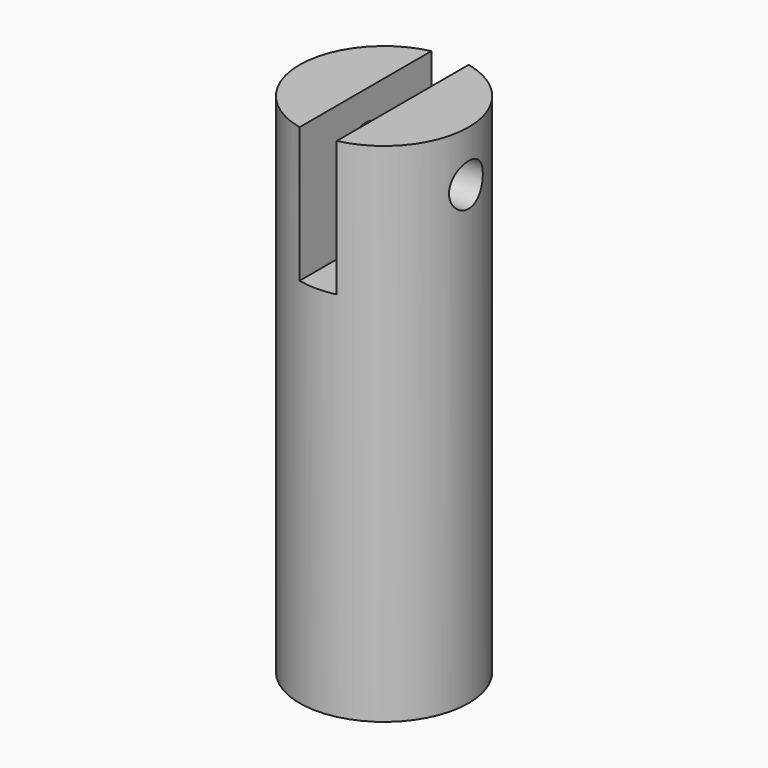
from build123d import *

# Parameters (mm, degrees)
F0_R     = 5
F1_DEPTH = 30
F3_DEPTH = 8
F4_R     = 1.25
F5_DEPTH = 5
F7_D     = 4
F7_DEPTH = 10
F7_TIP   = 1.2017212381


with BuildPart() as f1:
    # F0 (on Top) → F1 (new body)
    with BuildSketch(Plane.XY):
        Circle(F0_R)
    extrude(amount=F1_DEPTH)

    # F2 (on face) → F3 (cut)
    with BuildSketch(Plane.XY.offset(30)):
        with BuildLine():
            ThreePointArc((1.1, 4.8774993593), (0, 5), (-1.1, 4.8774993593))
            Line((-1.1, 4.8774993593), (-1.1, -4.8774993593))
            ThreePointArc((-1.1, -4.8774993593), (0, -5), (1.1, -4.8774993593))
            Line((1.1, -4.8774993593), (1.1, 4.8774993593))
        make_face()
    extrude(amount=-F3_DEPTH, mode=Mode.SUBTRACT)

    # F4 (on Right) → F5 (cut, symmetric)
    with BuildSketch(Plane.YZ):
        with Locations((0, 27)):
            Circle(F4_R)
    extrude(amount=F5_DEPTH, both=True, mode=Mode.SUBTRACT)

    # F7
    with Locations(Plane(origin=(0, 0, 0), x_dir=(1, 0, 0), z_dir=(0, 0, -1))):
        with Locations((0, 0)):
            Hole(F7_D / 2, depth=F7_DEPTH)
            with Locations((0, 0, -(F7_DEPTH + F7_TIP / 2))):  # 118° drill point
                Cone(0, F7_D / 2, F7_TIP, mode=Mode.SUBTRACT)


solid = f1.part
